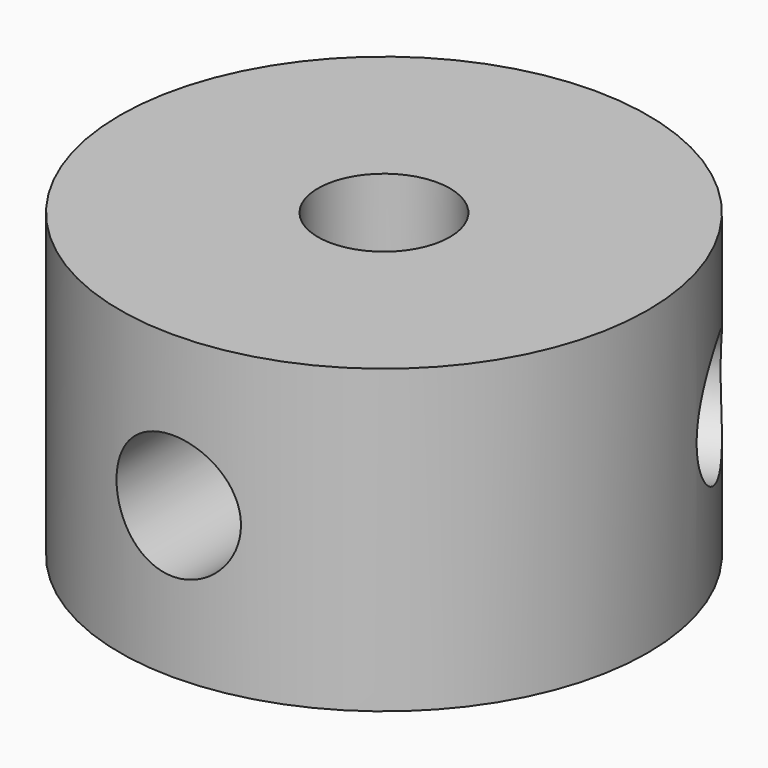
from build123d import *

# Parameters (mm, degrees)
F0_R     = 7
F0_R_2   = 1.75
F1_DEPTH = 4
F2_R     = 1.65
F3_DEPTH = 7
F4_COUNT = 3
F5_DEPTH = 7
F6_DEPTH = 7
F7_DEPTH = 7


with BuildPart() as f1:
    # F0 (on Top) → F1 (new body, symmetric)
    with BuildSketch(Plane.XY):
        Circle(F0_R)
        Circle(F0_R_2, mode=Mode.SUBTRACT)
    extrude(amount=F1_DEPTH, both=True)


with BuildPart() as f3:
    # F2 (on Front) → F3 (new body)
    with BuildSketch(Plane.XZ):
        Circle(F2_R)
    extrude(amount=F3_DEPTH)


with BuildPart() as f4_1:
    # F4: instance of F3
    add(f3.part.rotate(Axis((0, 0, 4), (0, 0, 1)), 1 * 360 / F4_COUNT))


with BuildPart() as f4_2:
    # F4: instance of F3
    add(f3.part.rotate(Axis((0, 0, 4), (0, 0, 1)), 2 * 360 / F4_COUNT))


with BuildPart() as f5_tool:
    # F5 (cut): a face of the model
    f5_faces = [f3.part.faces().sort_by_distance(p)[0] for p in [
        (0, -7, 0),
    ]]
    extrude(f5_faces, amount=-F5_DEPTH)


with BuildPart() as f1_1:
    add(f1.part)

    # F5: cut by f5_tool
    add(f5_tool.part, mode=Mode.SUBTRACT)


with BuildPart() as f3_1:
    add(f3.part)

    # F5: cut by f5_tool
    add(f5_tool.part, mode=Mode.SUBTRACT)


with BuildPart() as f4_1_1:
    add(f4_1.part)

    # F5: cut by f5_tool
    add(f5_tool.part, mode=Mode.SUBTRACT)


with BuildPart() as f4_2_1:
    add(f4_2.part)

    # F5: cut by f5_tool
    add(f5_tool.part, mode=Mode.SUBTRACT)


with BuildPart() as f6_tool:
    # F6 (cut): a face of the model
    f6_faces = [f4_1_1.part.faces().sort_by_distance(p)[0] for p in [
        (6.0621778265, 3.5, 0),
    ]]
    extrude(f6_faces, amount=-F6_DEPTH)


with BuildPart() as f1_2:
    add(f1_1.part)

    # F6: cut by f6_tool
    add(f6_tool.part, mode=Mode.SUBTRACT)


with BuildPart() as f4_1_2:
    add(f4_1_1.part)

    # F6: cut by f6_tool
    add(f6_tool.part, mode=Mode.SUBTRACT)


with BuildPart() as f4_2_2:
    add(f4_2_1.part)

    # F6: cut by f6_tool
    add(f6_tool.part, mode=Mode.SUBTRACT)


with BuildPart() as f7_tool:
    # F7 (cut): a face of the model
    f7_faces = [f4_2_2.part.faces().sort_by_distance(p)[0] for p in [
        (-6.0621778265, 3.5, 0),
    ]]
    extrude(f7_faces, amount=-F7_DEPTH)


with BuildPart() as f1_3:
    add(f1_2.part)

    # F7: cut by f7_tool
    add(f7_tool.part, mode=Mode.SUBTRACT)


with BuildPart() as f4_2_3:
    add(f4_2_2.part)

    # F7: cut by f7_tool
    add(f7_tool.part, mode=Mode.SUBTRACT)


solid = f1_3.part
